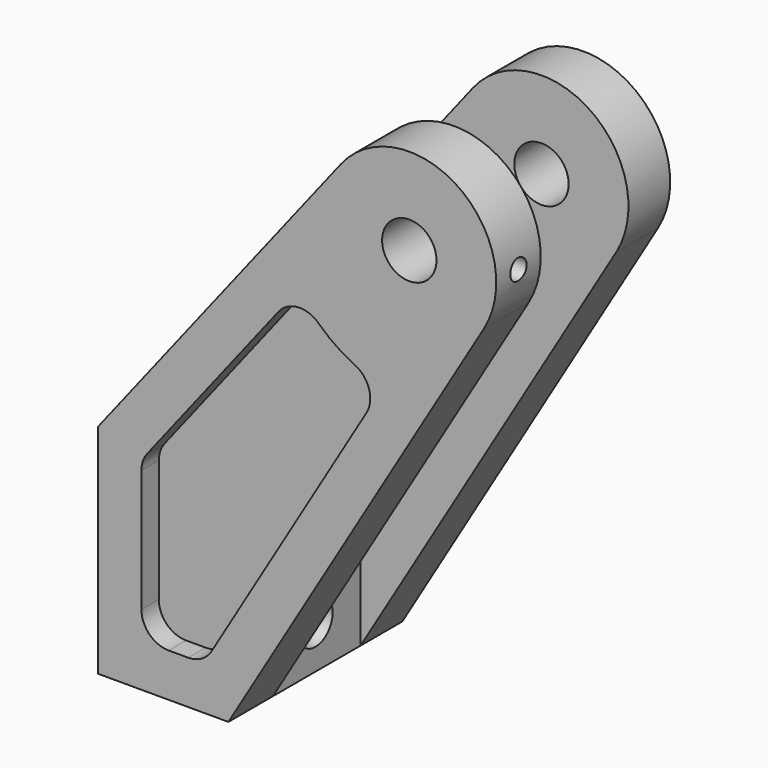
from build123d import *

# Parameters (mm, degrees)
F0_R      = 1.5875
F1_DEPTH  = 12.7
F3_DEPTH  = 1.27
F5_DEPTH  = 1.27
F7_D      = 2.5273
F8_W      = 15.6464
F8_H      = 6.4008
F9_DEPTH  = 32.767
F11_DEPTH = 26.1494109194
F13_R     = 0.5969
F14_DEPTH = 4.2418


with BuildPart() as f1:
    # F0 (on Front) → F1 (new body)
    with BuildSketch(Plane.XZ):
        with BuildLine():
            Line((0, 12.7), (0, 0))
            Line((0, 0), (7.62, 0))
            Line((7.62, 0), (22.5517244204, 25.0878578359))
            ThreePointArc((22.5517244204, 25.0878578359), (21.0572314123, 31.8770293487), (14.1866754903, 30.817869066))
            Line((14.1866754903, 30.817869066), (0, 12.7))
        make_face()
        with Locations((18.1864, 27.686)):
            Circle(F0_R, mode=Mode.SUBTRACT)
    extrude(amount=F1_DEPTH)

    # F2 (on face) → F3 (cut)
    with BuildSketch(Plane.XZ.offset(12.7)):
        with BuildLine():
            ThreePointArc((5.2733546579, 2.54), (6.0579673524, 2.7474495771), (6.6375185393, 3.3155805737))
            Line((6.6375185393, 3.3155805737), (15.6851948134, 18.5172284021))
            ThreePointArc((15.6851948134, 18.5172284021), (15.8374637284, 19.7988156089), (14.9874738748, 20.7699844097))
            ThreePointArc((14.9874738748, 20.7699844097), (13.8801528815, 21.3994559769), (12.8931539876, 22.2045816934))
            ThreePointArc((12.8931539876, 22.2045816934), (11.6805013198, 22.6463113598), (10.5404804924, 22.0413286293))
            Line((10.5404804924, 22.0413286293), (2.8775860907, 12.2550106486))
            ThreePointArc((2.8775860907, 12.2550106486), (2.6267677486, 11.7939490899), (2.54, 11.2763015655))
            Line((2.54, 11.2763015655), (2.54, 4.1275))
            ThreePointArc((2.54, 4.1275), (3.0049679849, 3.0049679849), (4.1275, 2.54))
            Line((4.1275, 2.54), (5.2733546579, 2.54))
        make_face()
    extrude(amount=-F3_DEPTH, mode=Mode.SUBTRACT)

    # F4 (on face) → F5 (cut)
    with BuildSketch(Plane(origin=(0, 0, 0), x_dir=(-1, 0, 0), z_dir=(0, 1, 0))):
        with BuildLine():
            ThreePointArc((-2.54, 11.2763015655), (-2.6267677486, 11.7939490899), (-2.8775860907, 12.2550106486))
            Line((-2.8775860907, 12.2550106486), (-10.5404804924, 22.0413286293))
            ThreePointArc((-10.5404804924, 22.0413286293), (-11.6805013198, 22.6463113598), (-12.8931539876, 22.2045816934))
            ThreePointArc((-12.8931539876, 22.2045816934), (-13.8801528815, 21.3994559769), (-14.9874738748, 20.7699844097))
            ThreePointArc((-14.9874738748, 20.7699844097), (-15.8374637284, 19.7988156089), (-15.6851948134, 18.5172284021))
            Line((-15.6851948134, 18.5172284021), (-6.6375185393, 3.3155805737))
            ThreePointArc((-6.6375185393, 3.3155805737), (-6.0579673524, 2.7474495771), (-5.2733546579, 2.54))
            Line((-5.2733546579, 2.54), (-4.1275, 2.54))
            ThreePointArc((-4.1275, 2.54), (-3.0049679849, 3.0049679849), (-2.54, 4.1275))
            Line((-2.54, 4.1275), (-2.54, 11.2763015655))
        make_face()
    extrude(amount=-F5_DEPTH, mode=Mode.SUBTRACT)

    # F7 (through all)
    with Locations(Plane(origin=(0, 0, 0), x_dir=(0, -1, 0), z_dir=(-1, 0, 0))):
        with Locations((6.35, 2.54), (6.35, 10.16)):
            Hole(F7_D / 2)

    # F8 (on face) → F9 (cut, through all)
    with BuildSketch(Plane(origin=(0, 0, 0), x_dir=(1, 0, 0), z_dir=(0, 0, -1))):
        with Locations((15.4432, 6.2484)):
            Rectangle(F8_W, F8_H)
    extrude(amount=-F9_DEPTH, mode=Mode.SUBTRACT)

    # F10 (on face) → F11 (cut, through all)
    with BuildSketch(Plane(origin=(-6.1646719805, 0, 4.8270688221), x_dir=(0, -1, 0), z_dir=(-0.7873473444, 0, 0.6165096587))):
        with BuildLine():
            ThreePointArc((3.048, 22.3592149561), (6.2484, 19.1588149561), (9.4488, 22.3592149561))
            Line((9.4488, 22.3592149561), (3.048, 22.3592149561))
        make_face()
    extrude(amount=-F11_DEPTH, mode=Mode.SUBTRACT)

    # F13 (on offset) → F14 (cut)
    with BuildSketch(Plane.YZ.offset(23.4188)):
        with Locations((-11.0744, 27.686)):
            Circle(F13_R)
    extrude(amount=-F14_DEPTH, mode=Mode.SUBTRACT)


solid = f1.part
